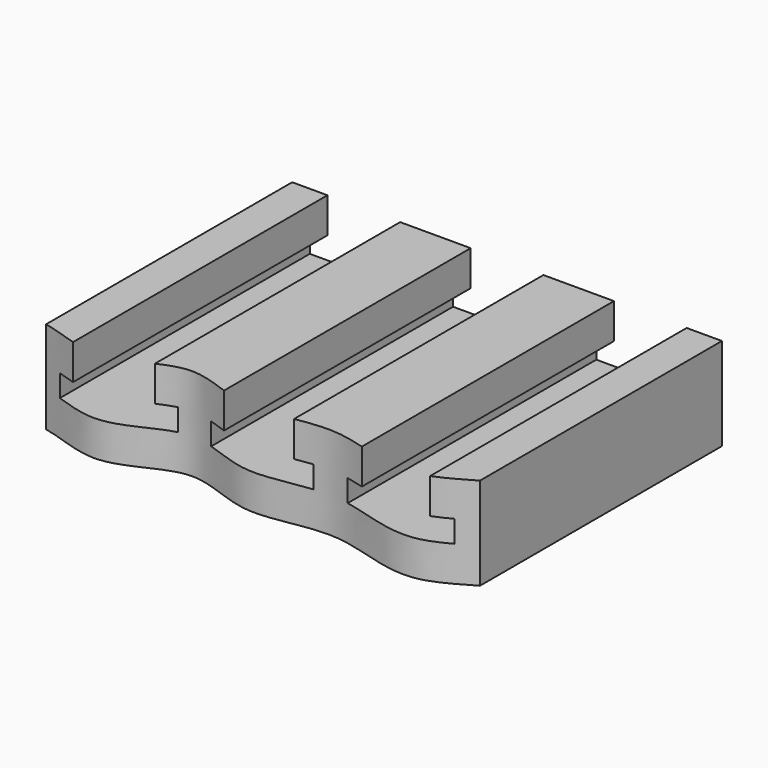
from build123d import *

# Parameters (mm, degrees)
F1_DEPTH = 254
F3_DEPTH = 66.676


with BuildPart() as f1:
    # F0 (on Front) → F1 (new body)
    with BuildSketch(Plane.XZ):
        Polygon((-26.19375, 53.70542624), (-76.99375, 53.70542624), (-76.99375, 28.30542624), (-64.29375, 28.30542624), (-64.29375, 12.43042624), (-142.08125, 12.43042624), (-142.08125, 28.30542624), (-129.38125, 28.30542624), (-129.38125, 53.70542624), (-154.78125, 53.70542624), (-154.78125, -12.96957376), (154.78125, -12.96957376), (154.78125, 53.70542624), (129.38125, 53.70542624), (129.38125, 28.30542624), (142.08125, 28.30542624), (142.08125, 12.43042624), (64.29375, 12.43042624), (64.29375, 28.30542624), (76.99375, 28.30542624), (76.99375, 53.70542624), (26.19375, 53.70542624), (26.19375, 28.30542624), (38.89375, 28.30542624), (38.89375, 12.43042624), (-38.89375, 12.43042624), (-38.89375, 28.30542624), (-26.19375, 28.30542624), align=None)
    extrude(amount=-F1_DEPTH)

    # F2 (on face) → F3 (cut, through all)
    with BuildSketch(Plane.XY.offset(53.70542624)):
        with BuildLine():
            add(Edge.make_bspline(
                [(-154.78125, 32.4057105541), (-161.3820856153, 33.7240346902), (-167.4622688116, 33.7918364426), (-172.5781410933, 31.0451351106)],
                knots=[0.9725895217, 0.9725895217, 0.9725895217, 0.9725895217, 1, 1, 1, 1], degree=3))
            add(Edge.make_bspline(
                [(-172.5781410933, 31.0451351106), (-190.5837742788, 21.3779475948), (-206.548638448, -95.9305426075), (46.1224753389, -114.1329365661), (210.5723641603, -23.7304349242), (197.6998905874, 15.9901854584), (176.4646847288, 59.1142675947), (121.1629727518, 4.0554010168), (55.1169182274, 42.5163631419), (-6.3789956434, 16.3841903104), (-59.0766721453, 52.5753852836), (-97.0494233849, 17.5440899141), (-123.6584021709, 23.2823267626), (-129.38125, 24.9158726552)],
                knots=[0, 0, 0, 0, 0.0964728966, 0.2541376325, 0.3925903757, 0.4508749111, 0.5117298667, 0.5914863461, 0.6787303481, 0.7613694942, 0.8381938102, 0.9177486309, 0.9395013052, 0.9395013052, 0.9395013052, 0.9395013052], degree=3))
            Line((-129.38125, 24.9158726552), (-129.38125, 0))
            Line((-129.38125, 0), (-154.78125, 0))
            Line((-154.78125, 0), (-154.78125, 32.4057105541))
        make_face()
        with BuildLine():
            Line((-129.38125, 0), (-129.38125, 24.9158726552))
            add(Edge.make_bspline(
                [(-129.38125, 24.9158726552), (-138.0863326676, 27.4006761064), (-146.8131337318, 30.814312039), (-154.78125, 32.4057105541)],
                knots=[0.9395013052, 0.9395013052, 0.9395013052, 0.9395013052, 0.9725895217, 0.9725895217, 0.9725895217, 0.9725895217], degree=3))
            Line((-154.78125, 32.4057105541), (-154.78125, 0))
            Line((-154.78125, 0), (-129.38125, 0))
        make_face()
    extrude(amount=-F3_DEPTH, mode=Mode.SUBTRACT)


solid = f1.part
